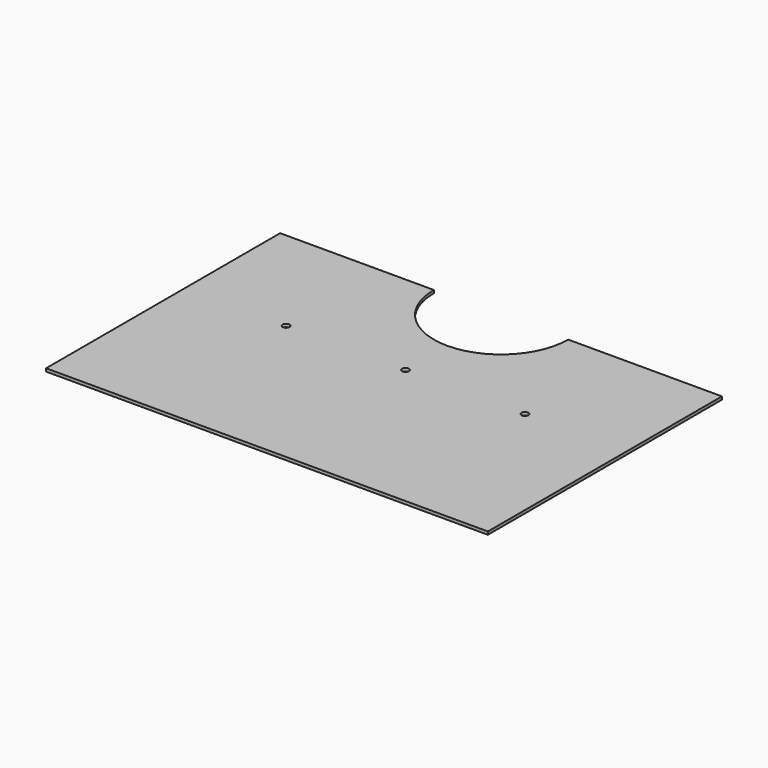
from build123d import *

# Parameters (mm, degrees)
F1_DEPTH = 2
F2_D     = 4.6


with BuildPart() as f1:
    # F0 (on Top) → F1 (new body)
    with BuildSketch(Plane.XY):
        with BuildLine():
            Line((-35.467581898, 114.6464416253), (-138.467581898, 114.6464416253))
            Line((-138.467581898, 114.6464416253), (-138.467581898, -81.3535583747))
            Line((-138.467581898, -81.3535583747), (157.532418102, -81.3535583747))
            Line((157.532418102, -81.3535583747), (157.532418102, 114.6464416253))
            Line((157.532418102, 114.6464416253), (54.532418102, 114.6464416253))
            ThreePointArc((54.532418102, 114.6464416253), (9.532418102, 69.6464416253), (-35.467581898, 114.6464416253))
        make_face()
    extrude(amount=F1_DEPTH)

    # F2 (through all)
    with Locations(Plane(origin=(0, 0, 0), x_dir=(1, 0, 0), z_dir=(0, 0, -1))):
        with Locations((-70.467581898, -34.6464416253), (9.532418102, -34.6464416253), (89.532418102, -34.6464416253)):
            Hole(F2_D / 2)


solid = f1.part
